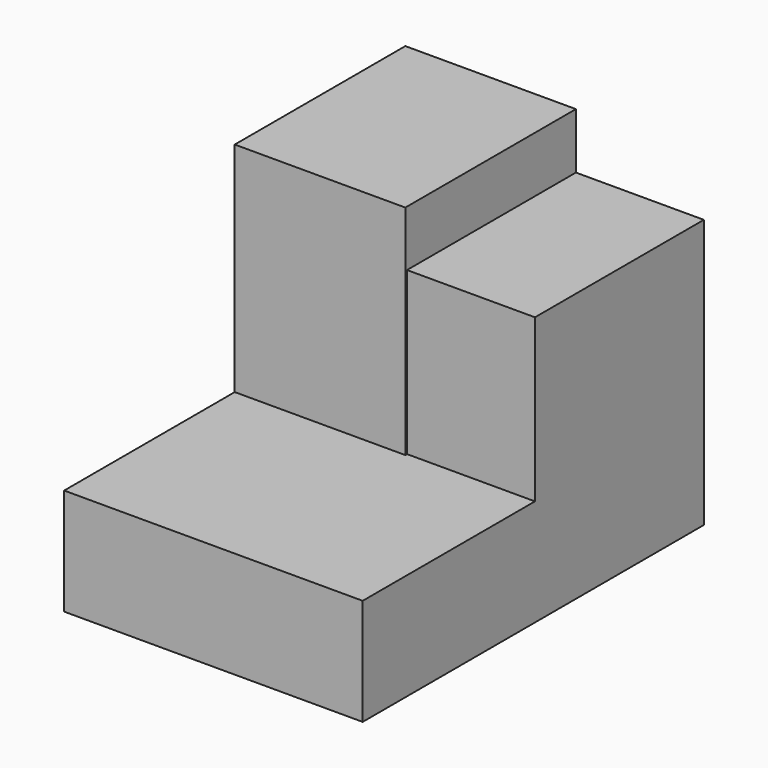
from build123d import *

# Parameters (mm, degrees)
F0_W     = 1778
F0_H     = 2540
F1_DEPTH = 635
F2_W     = 1016
F2_H     = 1270
F3_DEPTH = 635
F5_W     = 762
F5_H     = 1257.3888301849
F7_DEPTH = 965.2
F9_DEPTH = 662.94


with BuildPart() as f1:
    # F0 (on Top) → F1 (new body)
    with BuildSketch(Plane.XY):
        with Locations((-889, -1270)):
            Rectangle(F0_W, F0_H)
    extrude(amount=F1_DEPTH)

    # F2 (on face) → F3 (join)
    with BuildSketch(Plane.XY.offset(635)):
        with Locations((-1270, -635)):
            Rectangle(F2_W, F2_H)
    extrude(amount=F3_DEPTH)

    # F5 (on face) → F7 (join)
    with BuildSketch(Plane.XY.offset(635)):
        with Locations((-381, -628.6944150925)):
            Rectangle(F5_W, F5_H)
    extrude(amount=F7_DEPTH)

    # F8 (on face) → F9 (join)
    with BuildSketch(Plane.XY.offset(1270)):
        Polygon((-762, -1257.3888301849), (-762, 0), (-1778, 0), (-1778, -1270), (-762, -1270), align=None)
    extrude(amount=F9_DEPTH)


solid = f1.part
